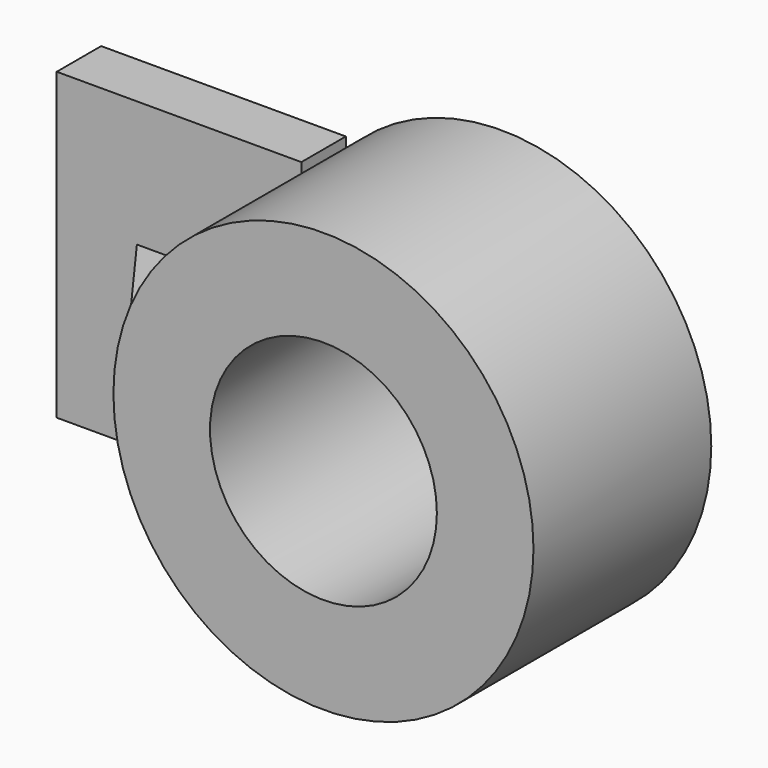
from build123d import *

# Parameters (mm, degrees)
F1_R          = 48.010514
F2_DEPTH      = 50.8
F0_W          = 55.918477
F0_H          = 69.615215
F5_DEPTH      = 12.7
F6_R          = 25.926633
F3_DEPTH      = 50.801
F4_DEPTH      = 6.352296
F4_DEPTH_BACK = 8.470742


with BuildPart() as f2:
    # F1 (on Front) → F2 (new body)
    with BuildSketch(Plane.XZ):
        with Locations((35.529003, 0)):
            Circle(F1_R)
    extrude(amount=F2_DEPTH)

    # F0 (on Front) → F5 (join)
    with BuildSketch(Plane.XZ):
        with Locations((-27.959238, 0.355854)):
            Rectangle(F0_W, F0_H)
    extrude(amount=F5_DEPTH)

    # F6 (on face) → F3 (cut, through all)
    with BuildSketch(Plane.XZ.offset(50.8)):
        with Locations((35.529003, 0)):
            Circle(F6_R)
    extrude(amount=-F3_DEPTH, mode=Mode.SUBTRACT)

    # F7 (on Top) → F4 (join, two sides)
    with BuildSketch(Plane.XY) as f4_sk:
        Polygon((-37.657067, -12.615045), (-12.744168, -46.766188), (-12.455202, -12.37454), align=None)
    extrude(amount=F4_DEPTH)
    extrude(f4_sk.sketch, amount=-F4_DEPTH_BACK)


solid = f2.part
